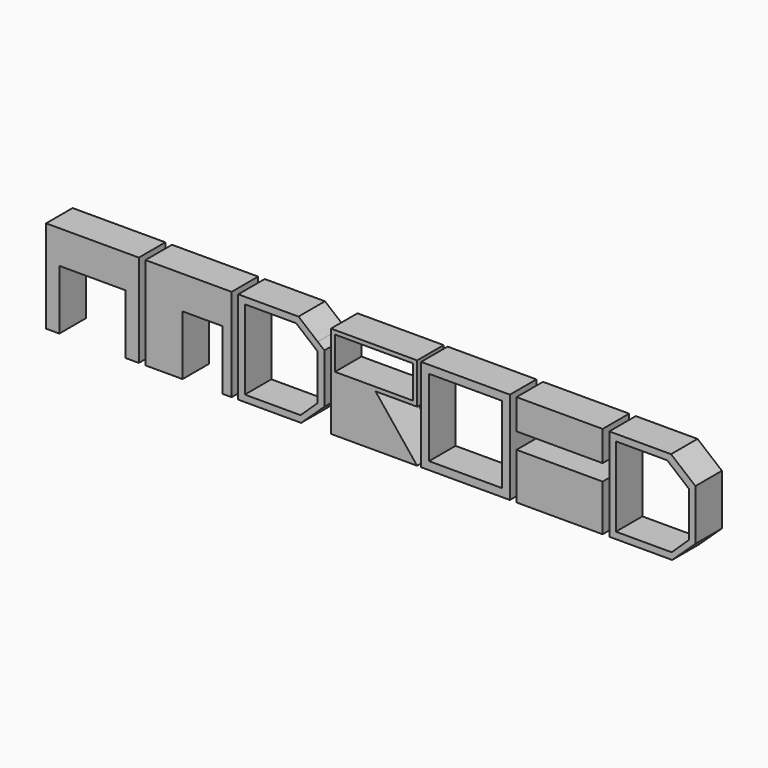
from build123d import *

# Parameters (mm, degrees)
F0_W     = 67
F0_H     = 70
F0_W_2   = 55
F0_H_2   = 58
F0_W_3   = 65
F0_H_3   = 22.74674
F0_H_4   = 35
F1_DEPTH = 25


with BuildPart() as f1:
    # F0 (on Front) → F1 (new body)
    with BuildSketch(Plane.XZ):
        Polygon((-183.98373, -12.913404), (-253.98373, -12.913404), (-253.98373, -82.913404), (-243.98373, -82.913404), (-243.98373, -37.913404), (-193.98373, -37.913404), (-193.98373, -82.913404), (-183.98373, -82.913404), align=None)
        Polygon((236.01627, -66.454373), (236.01627, -28.106725), (217.611432, -12.913404), (171.01627, -12.913404), (171.01627, -82.913404), (218.472781, -82.913404), align=None)
        Polygon((176.01627, -77.913404), (176.01627, -22.913404), (176.01627, -17.913404), (214.725056, -17.913404), (231.01627, -31.441993), (231.01627, -65.588723), (218.097142, -77.913404), align=None, mode=Mode.SUBTRACT)
        Polygon((-150.98373, -12.913404), (-178.98373, -12.913404), (-178.98373, -37.913404), (-178.98373, -82.913404), (-150.98373, -82.913404), (-150.98373, -37.913404), (-120.98373, -37.913404), (-120.98373, -82.913404), (-113.98373, -82.913404), (-113.98373, -38.678783), (-113.98373, -37.913404), (-113.98373, -12.913404), align=None)
        Polygon((-63.517713, -12.913404), (-108.98373, -12.913404), (-108.98373, -82.913404), (-61.527219, -82.913404), (-43.98373, -66.454373), (-43.98373, -29.01725), (-48.98373, -24.895242), align=None)
        Polygon((-65.274944, -17.913404), (-48.98373, -31.441993), (-48.98373, -65.588723), (-61.902858, -77.913404), (-103.98373, -77.913404), (-103.98373, -22.913404), (-103.98373, -17.913404), align=None, mode=Mode.SUBTRACT)
        Polygon((26.01627, -12.913404), (-38.98373, -12.913404), (-38.98373, -40.415872), (-38.98373, -82.913404), (-5.141227, -82.913404), (26.01627, -82.913404), (-5.391071, -43.673661), (26.01627, -43.673661), (26.01627, -40.415872), align=None)
        Polygon((-35.98373, -37.415872), (-35.98373, -15.913404), (23.01627, -15.913404), (23.01627, -37.415872), (23.086408, -40.673661), (-35.98373, -40.673661), align=None, mode=Mode.SUBTRACT)
        with Locations((62.51627, -47.913404)):
            Rectangle(F0_W, F0_H)
        with Locations((62.51627, -47.913404)):
            Rectangle(F0_W_2, F0_H_2, mode=Mode.SUBTRACT)
        with Locations((133.51627, -24.286774)):
            Rectangle(F0_W_3, F0_H_3)
        with Locations((133.51627, -65.413404)):
            Rectangle(F0_W_3, F0_H_4)
    extrude(amount=F1_DEPTH)


solid = f1.part
